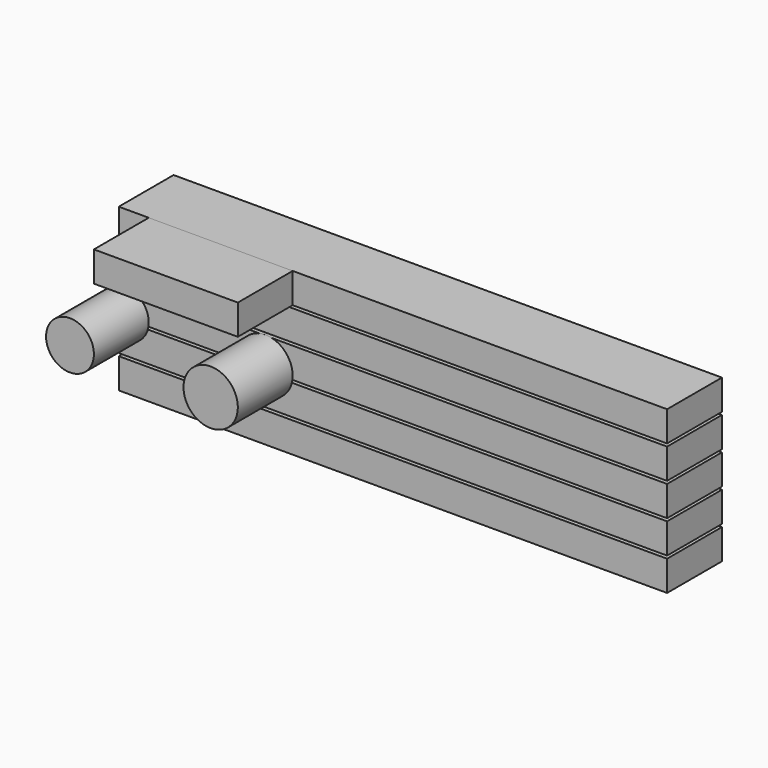
from build123d import *

# Parameters (mm, degrees)
F0_W     = 50.8
F0_H     = 2.794
F1_DEPTH = 6.35
F2_R     = 2.516976
F2_R_2   = 2.2172
F2_W     = 13.335
F2_H     = 2.794
F3_DEPTH = 6.35


with BuildPart() as f1:
    # F0 (on Front) → F1 (new body)
    with BuildSketch(Plane.XZ):
        with Locations((-1.167816, 13.589)):
            Rectangle(F0_W, F0_H)
        with Locations((-1.167816, 10.541)):
            Rectangle(F0_W, F0_H)
        with Locations((-1.167816, 7.493)):
            Rectangle(F0_W, F0_H)
        with Locations((-1.167816, 4.445)):
            Rectangle(F0_W, F0_H)
        with Locations((-1.167816, 1.397)):
            Rectangle(F0_W, F0_H)
    extrude(amount=F1_DEPTH)


with BuildPart() as f3:
    # F2 (on face) → F3 (new body)
    with BuildSketch(Plane.XZ.offset(6.35)):
        with Locations((-12.972829, 6.440359)):
            Circle(F2_R)
        with Locations((-26.008053, 6.440359)):
            Circle(F2_R_2)
        with Locations((-17.123353, 13.589)):
            Rectangle(F2_W, F2_H)
    extrude(amount=F3_DEPTH)


solid = Compound([f1.part, f3.part])
